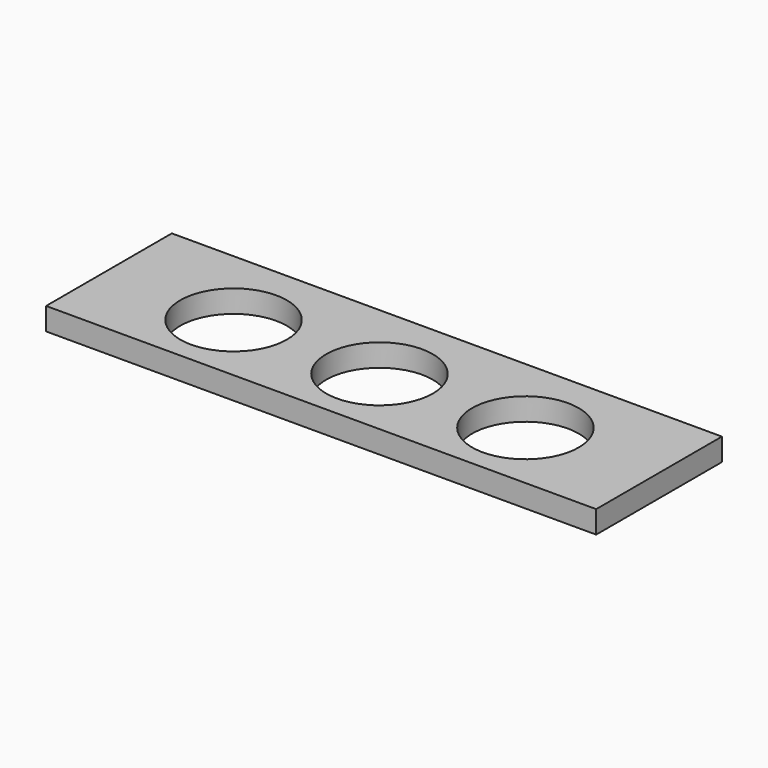
from build123d import *

# Parameters (mm, degrees)
F0_W     = 311.15
F0_H     = 88.9
F0_R     = 30.1625
F1_DEPTH = 12.7


with BuildPart() as f1:
    # F0 (on Top) → F1 (new body)
    with BuildSketch(Plane.XY):
        with Locations((0, -49.389448)):
            Rectangle(F0_W, F0_H)
        with Locations((-82.55, -52.564448)):
            Circle(F0_R, mode=Mode.SUBTRACT)
        with Locations((0, -52.564448)):
            Circle(F0_R, mode=Mode.SUBTRACT)
        with Locations((82.55, -52.564448)):
            Circle(F0_R, mode=Mode.SUBTRACT)
    extrude(amount=F1_DEPTH)


solid = f1.part
